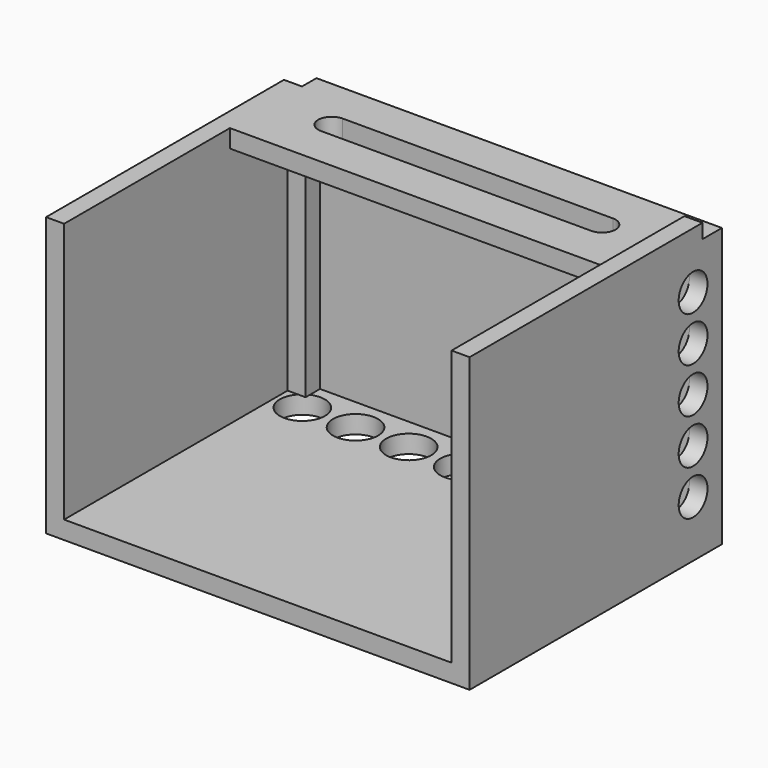
from build123d import *

# Parameters (mm, degrees)
F0_W      = 470
F0_H      = 325
F1_DEPTH  = 350
F2_T      = -20
F3_W      = 27
F3_H      = 16
F4_DEPTH  = 470.001
F5_R      = 25
F6_DEPTH  = 325.001
F7_R      = 20
F8_DEPTH  = 20
F9_W      = 20
F9_H      = 16
F10_DEPTH = 323.001
F11_W     = 20
F11_H     = 20
F12_DEPTH = 289
F13_W     = 20
F13_H     = 20
F14_DEPTH = 309.001
F15_W     = 100
F15_H     = 20
F16_DEPTH = 430
F18_DEPTH = 20


with BuildPart() as f1:
    # F0 (on Front) → F1 (new body)
    with BuildSketch(Plane.XZ):
        with Locations((235, 162.5)):
            Rectangle(F0_W, F0_H)
    extrude(amount=F1_DEPTH)

    # F2
    f2_openings = [f1.faces().sort_by_distance(p)[0] for p in [
        (235, -350, 162.5),
        (235, -175, 325),
    ]]
    offset(amount=F2_T, openings=f2_openings)

    # F3 (on face) → F4 (cut, through all)
    with BuildSketch(Plane.YZ.offset(470)):
        with Locations((-13.5, 317)):
            Rectangle(F3_W, F3_H)
    extrude(amount=-F4_DEPTH, mode=Mode.SUBTRACT)

    # F5 (on Top) → F6 (cut, through all)
    with BuildSketch(Plane.XY):
        with Locations((50, -57)):
            Circle(F5_R)
        with Locations((109, -57)):
            Circle(F5_R)
        with Locations((168, -57)):
            Circle(F5_R)
        with Locations((361, -57)):
            Circle(F5_R)
        with Locations((420, -57)):
            Circle(F5_R)
        with Locations((228, -57)):
            Circle(F5_R)
        with Locations((287, -57)):
            Circle(F5_R)
    extrude(amount=F6_DEPTH, mode=Mode.SUBTRACT)

    # F7 (on face) → F8 (cut, through all)
    with BuildSketch(Plane.YZ.offset(470)):
        with Locations((-40, 62.5)):
            Circle(F7_R)
        with BuildLine():
            ThreePointArc((-60, 162.5), (-40, 142.5), (-20, 162.5))
            ThreePointArc((-20, 162.5), (-40, 182.5), (-60, 162.5))
        make_face()
        with Locations((-40, 212.5)):
            Circle(F7_R)
        with Locations((-40, 262.5)):
            Circle(F7_R)
        with Locations((-40, 112.5)):
            Circle(F7_R)
    extrude(amount=-F8_DEPTH, mode=Mode.SUBTRACT)

    # F9 (on face) → F10 (cut, through all)
    with BuildSketch(Plane(origin=(0, -27, 0), x_dir=(-1, 0, 0), z_dir=(0, 1, 0))):
        with Locations((-10, 317)):
            Rectangle(F9_W, F9_H)
    extrude(amount=-F10_DEPTH, mode=Mode.SUBTRACT)

    # F11 (on face) → F12 (join, through all)
    with BuildSketch(Plane.XY.offset(309)):
        with Locations((30, -30)):
            Rectangle(F11_W, F11_H)
    extrude(amount=-F12_DEPTH)

    # F13 (on face) → F14 (cut, through all)
    with BuildSketch(Plane.XY.offset(309)):
        with Locations((10, -10)):
            Rectangle(F13_W, F13_H)
    extrude(amount=-F14_DEPTH, mode=Mode.SUBTRACT)

    # F15 (on face) → F16 (join, through all)
    with BuildSketch(Plane.YZ.offset(20)):
        with Locations((-70, 299)):
            Rectangle(F15_W, F15_H)
    extrude(amount=F16_DEPTH)

    # F17 (on face) → F18 (cut, through all)
    with BuildSketch(Plane.XY.offset(309)):
        with BuildLine():
            Line((85, -60), (85, -45))
            ThreePointArc((85, -45), (70, -60), (85, -75))
            Line((85, -75), (85, -60))
        make_face()
        Polygon((235, -45), (85, -45), (85, -60), (85, -75), (235, -75), align=None)
        with BuildLine():
            Line((385, -45), (235, -45))
            Line((235, -45), (235, -75))
            Line((235, -75), (385, -75))
            ThreePointArc((385, -75), (400, -60), (385, -45))
        make_face()
    extrude(amount=-F18_DEPTH, mode=Mode.SUBTRACT)


solid = f1.part
